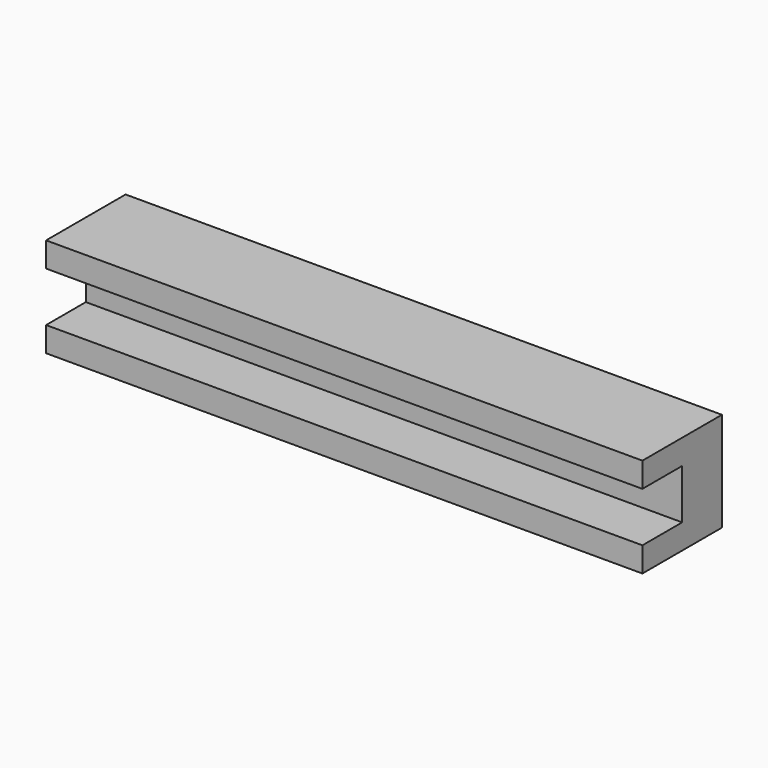
from build123d import *

# Parameters (mm, degrees)
F0_W     = 76.2
F0_H     = 12.7
F1_DEPTH = 6.35
F2_W     = 76.2
F2_H     = 3.175
F3_DEPTH = 6.35


with BuildPart() as f1:
    # F0 (on Front) → F1 (new body)
    with BuildSketch(Plane.XZ):
        with Locations((38.1, 6.35)):
            Rectangle(F0_W, F0_H)
    extrude(amount=F1_DEPTH)

    # F2 (on face) → F3 (join)
    with BuildSketch(Plane.XZ.offset(6.35)):
        with Locations((38.1, 11.1125)):
            Rectangle(F2_W, F2_H)
        with Locations((38.1, 1.5875)):
            Rectangle(F2_W, F2_H)
    extrude(amount=F3_DEPTH)


solid = f1.part
